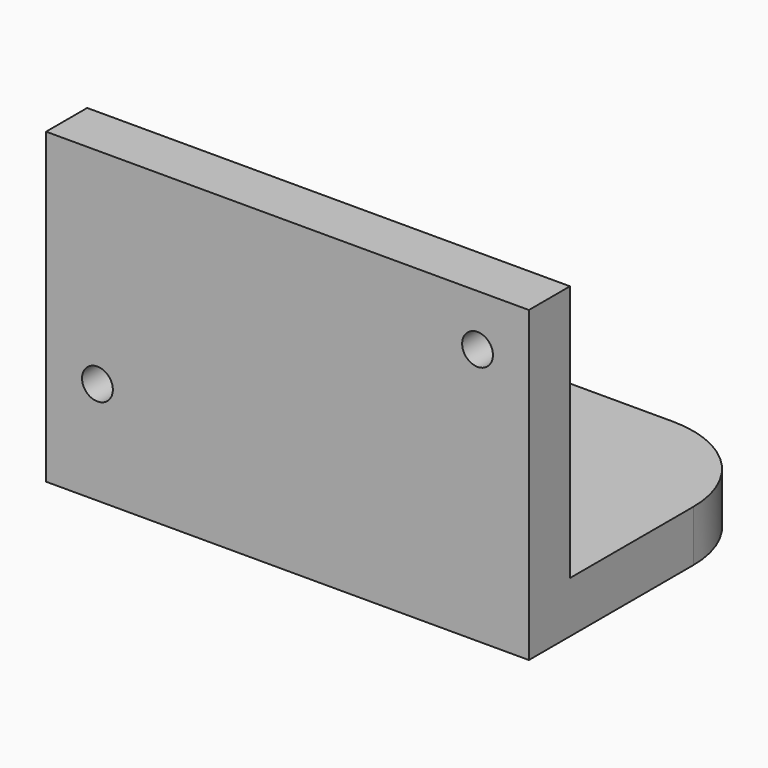
from build123d import *

# Parameters (mm, degrees)
F0_W     = 47
F0_H     = 25
F0_R     = 1.5
F1_DEPTH = 5
F2_R     = 2.5
F2_W     = 47
F2_H     = 5
F3_DEPTH = 5


with BuildPart() as f1:
    # F0 (on Front) → F1 (new body)
    with BuildSketch(Plane.XZ):
        Rectangle(F0_W, F0_H)
        with Locations((-18.5, -7.5)):
            Circle(F0_R, mode=Mode.SUBTRACT)
        with Locations((18.5, 7.5)):
            Circle(F0_R, mode=Mode.SUBTRACT)
    extrude(amount=F1_DEPTH)

    # F2 (on face) → F3 (join)
    with BuildSketch(Plane(origin=(0, 0, -12.5), x_dir=(1, 0, 0), z_dir=(0, 0, -1))):
        with BuildLine():
            Line((23.5, 0), (-23.5, 0))
            Line((-23.5, 0), (-23.5, -15))
            ThreePointArc((-23.5, -15), (-20.571068, -22.071068), (-13.5, -25))
            Line((-13.5, -25), (13.5, -25))
            ThreePointArc((13.5, -25), (20.571068, -22.071068), (23.5, -15))
            Line((23.5, -15), (23.5, 0))
        make_face()
        with Locations((0, -15)):
            Circle(F2_R, mode=Mode.SUBTRACT)
        with Locations((0, 2.5)):
            Rectangle(F2_W, F2_H)
    extrude(amount=F3_DEPTH)


solid = f1.part
